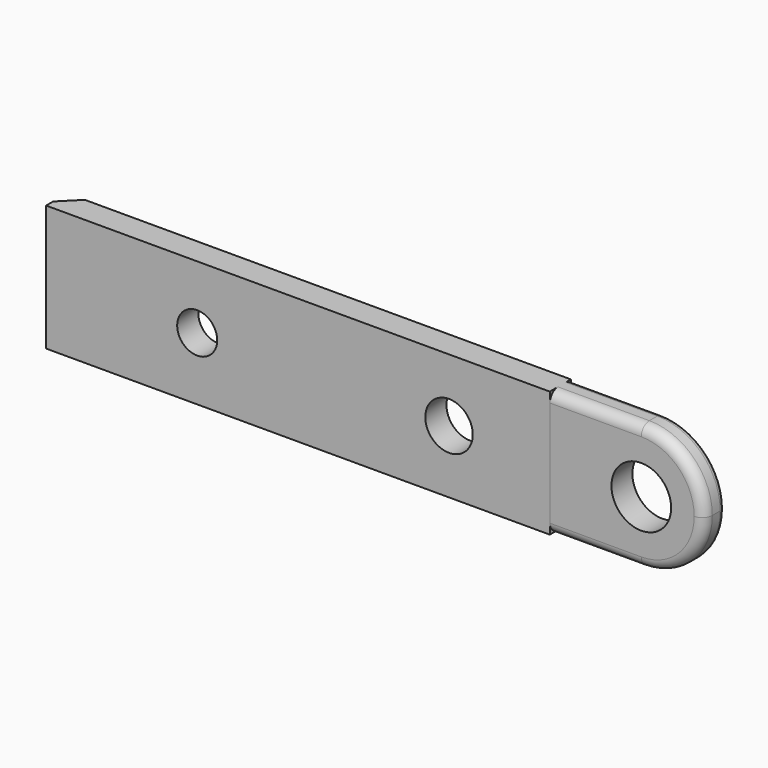
from build123d import *

# Parameters (mm, degrees)
F1_DEPTH  = 2.667
F3_D      = 6.0198
F4_D      = 4.7879
F5_D      = 4.0386
F6_W      = 32.8803089343
F6_H      = 42.4424372282
F7_DEPTH  = 0.0127
F8_W      = 27.7899198272
F8_H      = 25.566725319
F9_DEPTH  = 0.0127
F10_R     = 1.016
F11_R     = 0.635
F12_SIZE2 = 1.778
F12_SIZE  = 1.778


with BuildPart() as f1:
    # F0 (on Front) → F1 (new body)
    with BuildSketch(Plane.XZ):
        with BuildLine():
            Line((60.0202, 0), (0, 0))
            Line((0, 0), (0, -12.7))
            Line((0, -12.7), (60.0202, -12.7))
            ThreePointArc((60.0202, -12.7), (64.5103280605, -10.8401280605), (66.3702, -6.35))
            ThreePointArc((66.3702, -6.35), (64.5103280605, -1.8598719395), (60.0202, 0))
        make_face()
    extrude(amount=-F1_DEPTH)

    # F3 (through all)
    with Locations(Plane.XZ):
        with Locations((60.0202, -6.35)):
            Hole(F3_D / 2)

    # F4 (through all)
    with Locations(Plane.XZ):
        with Locations((40.64, -6.35)):
            Hole(F4_D / 2)

    # F5 (through all)
    with Locations(Plane.XZ):
        with Locations((15.24, -6.35)):
            Hole(F5_D / 2)

    # F6 (on face) → F7 (cut)
    with BuildSketch(Plane.XZ):
        with Locations((67.2401544672, -9.9617778324)):
            Rectangle(F6_W, F6_H)
    extrude(amount=-F7_DEPTH, mode=Mode.SUBTRACT)

    # F8 (on face) → F9 (cut)
    with BuildSketch(Plane(origin=(0, 2.667, 0), x_dir=(-1, 0, 0), z_dir=(0, 1, 0))):
        with Locations((-64.6949599136, -4.1028452106)):
            Rectangle(F8_W, F8_H)
    extrude(amount=-F9_DEPTH, mode=Mode.SUBTRACT)

    # F10
    f10_edges = [f1.edges().sort_by_distance(p)[0] for p in [
        (55.4101, 0.0127, -12.7),
    ]]
    fillet(f10_edges, radius=F10_R)

    # F11
    f11_edges = [f1.edges().sort_by_distance(p)[0] for p in [
        (55.4101, 2.6543, 0),
    ]]
    fillet(f11_edges, radius=F11_R)

    # F12
    f12_edges = [f1.edges().sort_by_distance(p)[0] for p in [
        (0, 2.667, -6.35),
    ]]
    chamfer(f12_edges, length=F12_SIZE, length2=F12_SIZE2)


solid = f1.part
